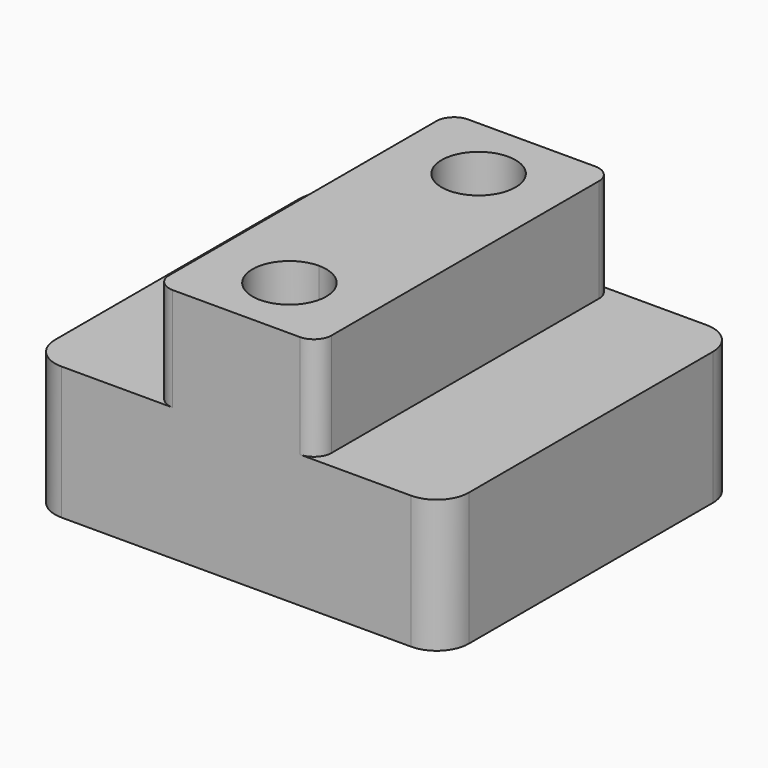
from build123d import *

# Parameters (mm, degrees)
F0_W     = 11
F0_H     = 7
F1_DEPTH = 12.5
F3_DEPTH = 25
F4_DEPTH = 7
F5_R     = 2.172792
F6_R     = 1.2


with BuildPart() as f1:
    # F0 (on Front) → F1 (new body, symmetric)
    with BuildSketch(Plane.XZ):
        Polygon((14, -8), (14, 1), (5.5, 1), (-5.5, 1), (-14, 1), (-14, -8), align=None)
        with Locations((0, 4.5)):
            Rectangle(F0_W, F0_H)
    extrude(amount=F1_DEPTH, both=True)

    # F2 (on face) → F3 (cut)
    with BuildSketch(Plane(origin=(0, 0, -8), x_dir=(1, 0, 0), z_dir=(0, 0, -1))):
        with BuildLine():
            ThreePointArc((2.5, 8), (-1.767767, 9.767767), (0, 5.5))
            ThreePointArc((0, 5.5), (1.767767, 6.232233), (2.5, 8))
        make_face()
        with BuildLine():
            ThreePointArc((2.5, -8), (1.767767, -6.232233), (0, -5.5))
            ThreePointArc((0, -5.5), (-1.767767, -9.767767), (2.5, -8))
        make_face()
    extrude(amount=-F3_DEPTH, mode=Mode.SUBTRACT)

    # F2 (on face) → F4 (cut)
    with BuildSketch(Plane(origin=(0, 0, -8), x_dir=(1, 0, 0), z_dir=(0, 0, -1))):
        with BuildLine():
            ThreePointArc((4, 8), (-2.828427, 10.828427), (0, 4))
            ThreePointArc((0, 4), (2.828427, 5.171573), (4, 8))
        make_face()
        with BuildLine():
            ThreePointArc((2.5, 8), (1.767767, 6.232233), (0, 5.5))
            ThreePointArc((0, 5.5), (-1.767767, 9.767767), (2.5, 8))
        make_face(mode=Mode.SUBTRACT)
        with BuildLine():
            ThreePointArc((4, -8), (2.828427, -5.171573), (0, -4))
            ThreePointArc((0, -4), (-2.828427, -10.828427), (4, -8))
        make_face()
        with BuildLine():
            ThreePointArc((2.5, -8), (-1.767767, -9.767767), (0, -5.5))
            ThreePointArc((0, -5.5), (1.767767, -6.232233), (2.5, -8))
        make_face(mode=Mode.SUBTRACT)
    extrude(amount=-F4_DEPTH, mode=Mode.SUBTRACT)

    # F5
    f5_edges = [f1.edges().sort_by_distance(p)[0] for p in [
        (-14, -12.5, -3.5),
        (14, -12.5, -3.5),
        (14, 12.5, -3.5),
        (-14, 12.5, -3.5),
    ]]
    fillet(f5_edges, radius=F5_R)

    # F6
    f6_edges = [f1.edges().sort_by_distance(p)[0] for p in [
        (5.5, -12.5, 4.5),
        (-5.5, -12.5, 4.5),
        (5.5, 12.5, 4.5),
        (-5.5, 12.5, 4.5),
    ]]
    fillet(f6_edges, radius=F6_R)


solid = f1.part
